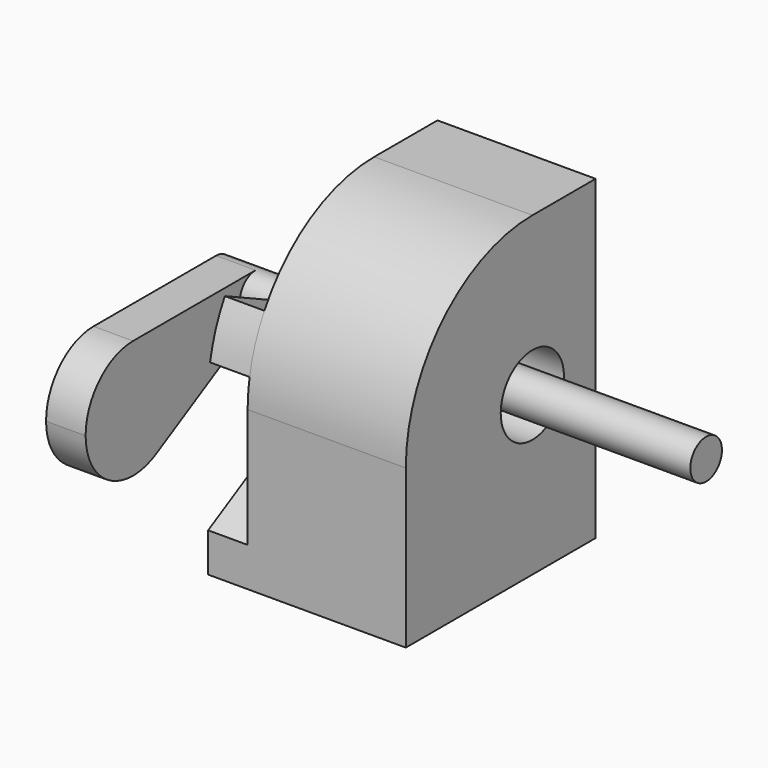
from build123d import *

# Parameters (mm, degrees)
F0_W      = 2
F0_H      = 3
F1_DEPTH  = 4
F2_R      = 2
F3_R      = 0.5
F4_DEPTH  = 2.001
F6_R      = 0.25
F7_DEPTH  = 6.1976
F9_DEPTH  = 0.5
F11_DEPTH = 0.5


with BuildPart() as f1:
    # F0 (on Top) → F1 (new body)
    with BuildSketch(Plane.XY):
        Rectangle(F0_W, F0_H)
    extrude(amount=F1_DEPTH)

    # F2
    f2_edges = [f1.edges().sort_by_distance(p)[0] for p in [
        (0, -1.5, 4),
    ]]
    fillet(f2_edges, radius=F2_R)

    # F3 (on face) → F4 (cut, through all)
    with BuildSketch(Plane(origin=(-1, 0, 0), x_dir=(0, -1, 0), z_dir=(-1, 0, 0))):
        with Locations((-0.5, 2)):
            Circle(F3_R)
    extrude(amount=-F4_DEPTH, mode=Mode.SUBTRACT)

    # F10 (on face) → F11 (join)
    with BuildSketch(Plane(origin=(-1, 0, 0), x_dir=(0, -1, 0), z_dir=(-1, 0, 0))):
        with BuildLine():
            Line((1.2360557408, 2.9930309486), (-0.1429285786, 2.35))
            Line((-0.1429285786, 2.35), (1.4691368668, 2.35))
            ThreePointArc((1.4691368668, 2.35), (1.3802886121, 2.6815531784), (1.2360557408, 2.9930309486))
        make_face()
        Polygon((1.5, 0.4934333297), (-0.3570055276, 1.5208835414), (0.7498061304, 0), (1.5, 0), align=None)
    extrude(amount=F11_DEPTH)


with BuildPart() as f7:
    # F6 (on offset) → F7 (new body)
    with BuildSketch(Plane(origin=(-3, 0, 0), x_dir=(0, -1, 0), z_dir=(-1, 0, 0))):
        with Locations((-0.5, 2)):
            Circle(F6_R)
    extrude(amount=-F7_DEPTH)

    # F8 (on face) → F9 (join)
    with BuildSketch(Plane(origin=(-3, 0, 0), x_dir=(0, -1, 0), z_dir=(-1, 0, 0))):
        with BuildLine():
            ThreePointArc((-0.6210307296, 1.78125), (-0.3730308746, 1.784642527), (-0.25, 2))
            ThreePointArc((-0.25, 2), (-0.3232233047, 2.1767766953), (-0.5, 2.25))
            ThreePointArc((-0.5, 2.25), (-0.7420614591, 2.0625), (-0.6210307296, 1.78125))
        make_face()
        with BuildLine():
            ThreePointArc((-0.5, 2.25), (-0.3232233047, 2.1767766953), (-0.25, 2))
            ThreePointArc((-0.25, 2), (-0.3730308746, 1.784642527), (-0.6210307296, 1.78125))
            Line((-0.6210307296, 1.78125), (1.0733994844, 0.84375))
            ThreePointArc((1.0733994844, 0.84375), (0.7103072957, 1.6875), (1.4364916731, 2.25))
            Line((1.4364916731, 2.25), (-0.5, 2.25))
        make_face()
        with BuildLine():
            ThreePointArc((2.1864916731, 1.5), (1.966821759, 2.0303300859), (1.4364916731, 2.25))
            ThreePointArc((1.4364916731, 2.25), (0.7103072957, 1.6875), (1.0733994844, 0.84375))
            ThreePointArc((1.0733994844, 0.84375), (1.8173990493, 0.8539275809), (2.1864916731, 1.5))
        make_face()
    extrude(amount=-F9_DEPTH)


solid = Compound([f1.part, f7.part])
